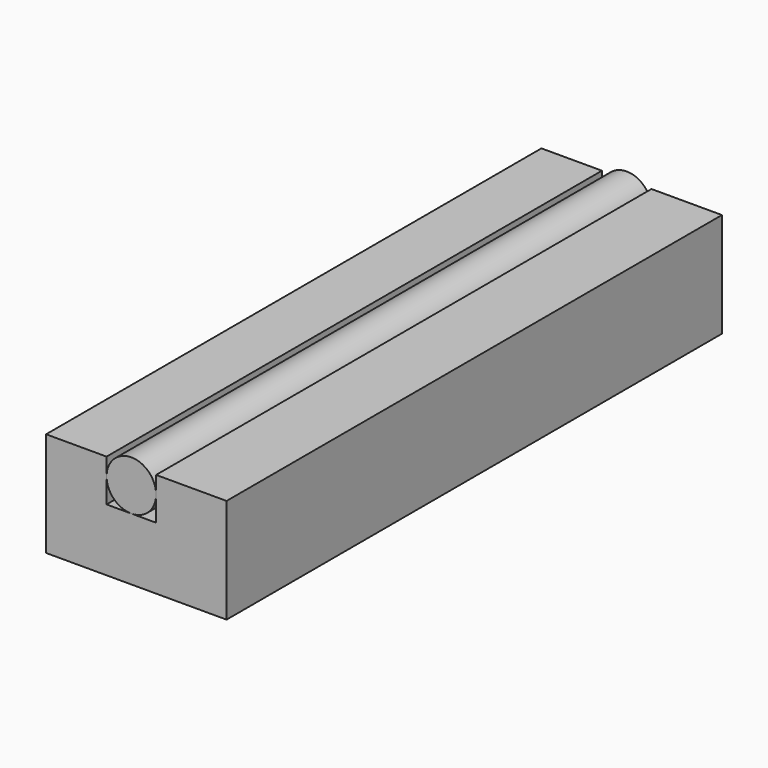
from build123d import *

# Parameters (mm, degrees)
F0_R     = 1
F1_DEPTH = 25
F3_DEPTH = 25


with BuildPart() as f1:
    # F0 (on Front) → F1 (new body)
    with BuildSketch(Plane.XZ):
        Circle(F0_R)
    extrude(amount=F1_DEPTH)


with BuildPart() as f3:
    # F2 (on face) → F3 (new body)
    with BuildSketch(Plane.XZ.offset(25)):
        Polygon((-1, 0), (-1, 0.7), (-3.442081, 0.7), (-3.442081, -3.51974), (3.844931, -3.51974), (3.844931, 0.7), (1, 0.7), (1, 0), (1, -1), (0, -1), (-1, -1), align=None)
    extrude(amount=-F3_DEPTH)


solid = Compound([f1.part, f3.part])
